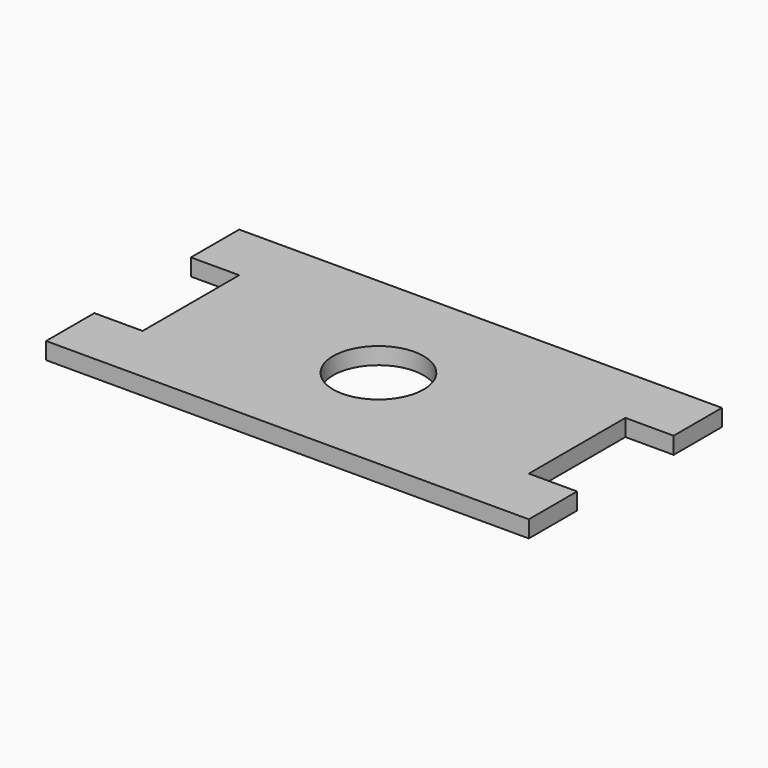
from build123d import *

# Parameters (mm, degrees)
F1_DEPTH = 14
F2_R     = 37.5
F3_DEPTH = 14


with BuildPart() as f1:
    # F0 (on Top) → F1 (new body)
    with BuildSketch(Plane.XY):
        Polygon((400, 0), (0, 0), (0, -50), (40, -50), (40, -150), (0, -150), (0, -200), (400, -200), (400, -150), (360, -150), (360, -50), (400, -50), align=None)
    extrude(amount=F1_DEPTH)

    # F2 (on face) → F3 (cut)
    with BuildSketch(Plane.XY.offset(14)):
        with Locations((195.744067, -100.478627)):
            Circle(F2_R)
    extrude(amount=-F3_DEPTH, mode=Mode.SUBTRACT)


solid = f1.part
